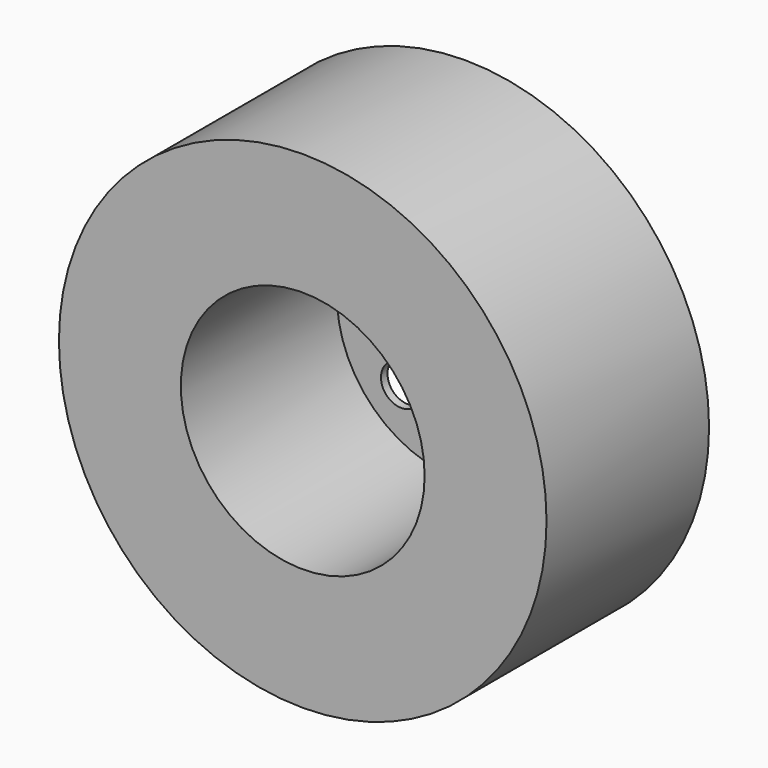
from build123d import *

# Parameters (mm, degrees)
F0_R      = 19.05
F2_DEPTH  = 15.875
F1_R      = 9.525
F3_DEPTH  = 15.24
F4_R      = 1.5875
F5_DEPTH  = 1.5875
F6_R      = 3.175
F7_DEPTH  = 7.9375
F9_R      = 1.5875
F10_DEPTH = 25.4


with BuildPart() as f2:
    # F0 (on Front) → F2 (new body)
    with BuildSketch(Plane.XZ):
        Circle(F0_R)
    extrude(amount=-F2_DEPTH)

    # F1 (on face) → F3 (cut)
    with BuildSketch(Plane.XZ):
        Circle(F1_R)
    extrude(amount=-F3_DEPTH, mode=Mode.SUBTRACT)

    # F4 (on face) → F5 (join)
    with BuildSketch(Plane.XZ.offset(-15.24)):
        Circle(F4_R)
    extrude(amount=F5_DEPTH)

    # F6 (on face) → F7 (join)
    with BuildSketch(Plane(origin=(0, 15.875, 0), x_dir=(-1, 0, 0), z_dir=(0, 1, 0))):
        Circle(F6_R)
    extrude(amount=F7_DEPTH)

    # F9 (on face) → F10 (cut)
    with BuildSketch(Plane(origin=(0, 15.875, 0), x_dir=(-1, 0, 0), z_dir=(0, 1, 0))):
        with Locations((6.35, 0)):
            Circle(F9_R)
        with Locations((4.490128, 4.490128)):
            Circle(F9_R)
        with Locations((0, 6.35)):
            Circle(F9_R)
        with Locations((-4.490128, 4.490128)):
            Circle(F9_R)
        with Locations((-6.35, 0)):
            Circle(F9_R)
        with Locations((-4.490128, -4.490128)):
            Circle(F9_R)
        with Locations((0, -6.35)):
            Circle(F9_R)
        with Locations((4.490128, -4.490128)):
            Circle(F9_R)
    extrude(amount=-F10_DEPTH, mode=Mode.SUBTRACT)


solid = f2.part
